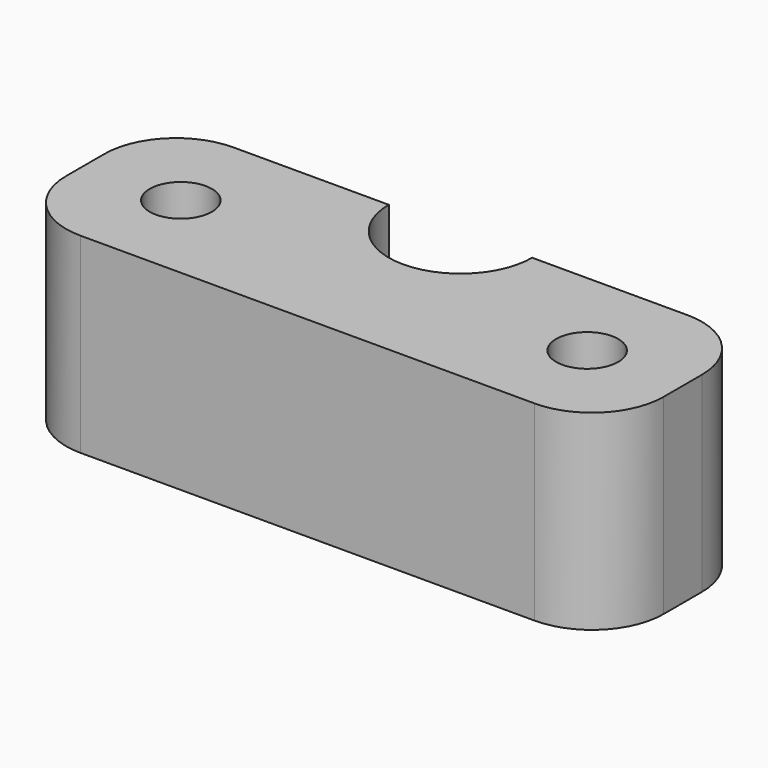
from build123d import *

# Parameters (mm, degrees)
CYLINDER002_R     = 3
CYLINDER002_DEPTH = 10
CYLINDER001_R     = 1.3
CYLINDER001_DEPTH = 10
CYLINDER_R        = 1.3
CYLINDER_DEPTH    = 10
BOX_W             = 25
BOX_H             = 8
BOX_DEPTH         = 8
FILLET_R          = 3
FILLET001_R       = 3


with BuildPart() as cylinder002:
    # Cylinder002 → Cylinder002 (new body)
    with BuildSketch(Plane(origin=(12.5, 8, -1), x_dir=(1, 0, 0), z_dir=(0, 0, 1))):
        Circle(CYLINDER002_R)
    extrude(amount=CYLINDER002_DEPTH)


with BuildPart() as cylinder001:
    # Cylinder001 → Cylinder001 (new body)
    with BuildSketch(Plane(origin=(21, 4, -1), x_dir=(1, 0, 0), z_dir=(0, 0, 1))):
        Circle(CYLINDER001_R)
    extrude(amount=CYLINDER001_DEPTH)


with BuildPart() as fusion:
    # Cylinder → Cylinder (new body)
    with BuildSketch(Plane(origin=(4, 4, -1), x_dir=(1, 0, 0), z_dir=(0, 0, 1))):
        Circle(CYLINDER_R)
    extrude(amount=CYLINDER_DEPTH)

    # Fusion: union Cylinder001
    add(cylinder001.part)


with BuildPart() as fillet001:
    # Box → Box (new body)
    with BuildSketch(Plane.XY):
        with Locations((12.5, 4)):
            Rectangle(BOX_W, BOX_H)
    extrude(amount=BOX_DEPTH)

    # Cut: cut Fusion
    add(fusion.part, mode=Mode.SUBTRACT)

    # Fillet
    fillet_edges = [fillet001.edges().sort_by_distance(p)[0] for p in [
        (0, 0, 4),
        (0, 8, 4),
        (25, 0, 4),
        (25, 8, 4),
    ]]
    fillet(fillet_edges, radius=FILLET_R)

    # Cut001: cut Cylinder002
    add(cylinder002.part, mode=Mode.SUBTRACT)

    # Fillet001
    fillet001_edges = [fillet001.edges().sort_by_distance(p)[0] for p in [
        (12.5, 5, 0),
    ]]
    fillet(fillet001_edges, radius=FILLET001_R)


solid = fillet001.part
